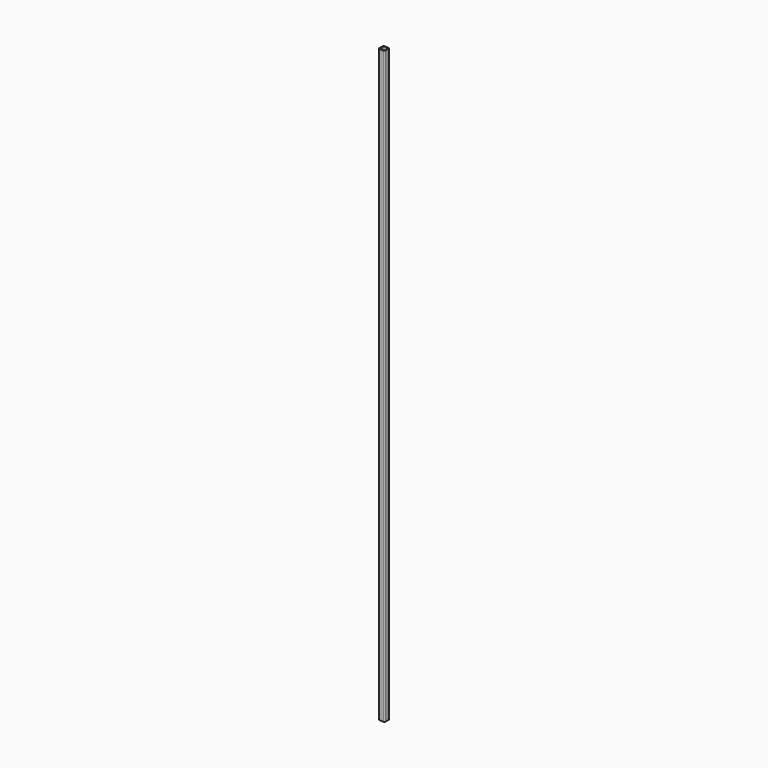
from build123d import *

# Parameters (mm, degrees)
PAD_DEPTH = 1828.8


with BuildPart() as part:
    # Sketch002 → Pad (new body)
    with BuildSketch(Plane.XY):
        with BuildLine():
            Line((-6.477, 9.525), (6.477, 9.525))
            ThreePointArc((9.525, 6.477), (8.632261, 8.632261), (6.477, 9.525))
            Line((9.525, 6.477), (9.525, -6.477))
            ThreePointArc((6.477, -9.525), (8.632261, -8.632261), (9.525, -6.477))
            Line((6.477, -9.525), (-6.477, -9.525))
            ThreePointArc((-9.525, -6.477), (-8.632261, -8.632261), (-6.477, -9.525))
            Line((-9.525, -6.477), (-9.525, 6.477))
            ThreePointArc((-6.477, 9.525), (-8.632261, 8.632261), (-9.525, 6.477))
        make_face()
        with BuildLine():
            Line((-6.477, 8.001), (6.477, 8.001))
            ThreePointArc((8.001, 6.477), (7.554631, 7.554631), (6.477, 8.001))
            Line((8.001, 6.477), (8.001, -6.477))
            ThreePointArc((6.477, -8.001), (7.554631, -7.554631), (8.001, -6.477))
            Line((6.477, -8.001), (-6.477, -8.001))
            ThreePointArc((-8.001, -6.477), (-7.554631, -7.554631), (-6.477, -8.001))
            Line((-8.001, -6.477), (-8.001, 6.477))
            ThreePointArc((-6.477, 8.001), (-7.554631, 7.554631), (-8.001, 6.477))
        make_face(mode=Mode.SUBTRACT)
    extrude(amount=PAD_DEPTH)


solid = part.part
